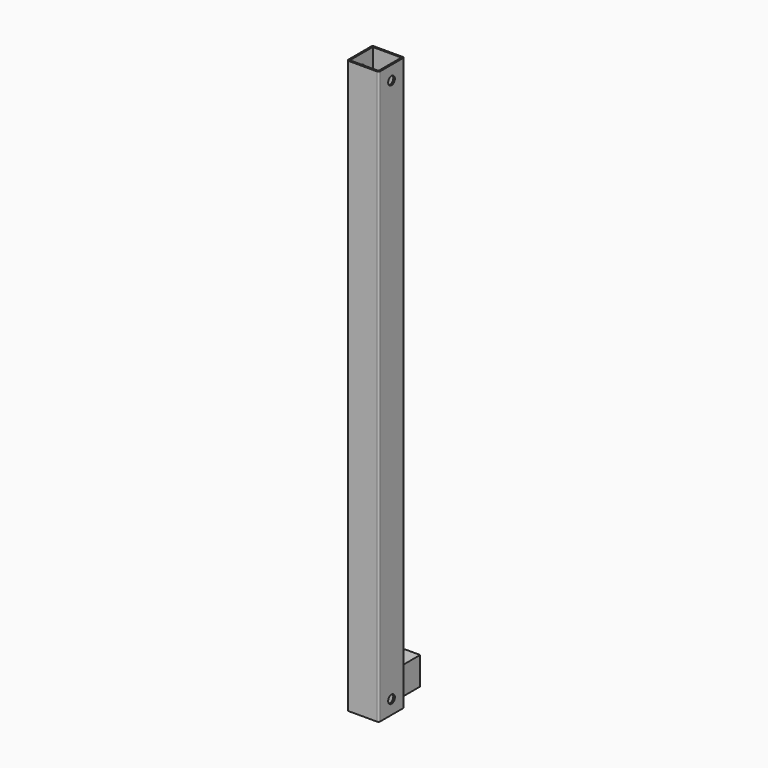
from build123d import *

# Parameters (mm, degrees)
F0_W     = 40
F0_H     = 40
F0_W_2   = 36
F0_H_2   = 36
F1_DEPTH = 720
F2_W     = 36
F2_H     = 36
F2_R     = 5.25
F3_DEPTH = 35
F5_D     = 10.5
F7_D     = 10.5
F8_R     = 2


with BuildPart() as f1:
    # F0 (on Top) → F1 (new body)
    with BuildSketch(Plane.XY):
        with Locations((-20, -20)):
            Rectangle(F0_W, F0_H)
        with Locations((-20, -20)):
            Rectangle(F0_W_2, F0_H_2, mode=Mode.SUBTRACT)
    extrude(amount=F1_DEPTH)

    # F5 (through all)
    with Locations(Plane(origin=(-40, 0, 0), x_dir=(0, -1, 0), z_dir=(-1, 0, 0))):
        with Locations((20, 17.5)):
            Hole(F5_D / 2)

    # F7 (through all)
    with Locations(Plane(origin=(-40, 0, 0), x_dir=(0, -1, 0), z_dir=(-1, 0, 0))):
        with Locations((20, 702.5)):
            Hole(F7_D / 2)

    # F8
    f8_edges = [f1.edges().sort_by_distance(p)[0] for p in [
        (0, -40, 360),
        (0, 0, 360),
        (-40, -40, 360),
        (-40, 0, 360),
    ]]
    fillet(f8_edges, radius=F8_R)


with BuildPart() as f3:
    # F2 (on Top) → F3 (new body)
    with BuildSketch(Plane.XY):
        with Locations((-33.769461, 26.767461)):
            Rectangle(F2_W, F2_H)
        with Locations((-33.769461, 26.767461)):
            Circle(F2_R, mode=Mode.SUBTRACT)
    extrude(amount=F3_DEPTH)


solid = Compound([f1.part, f3.part])
